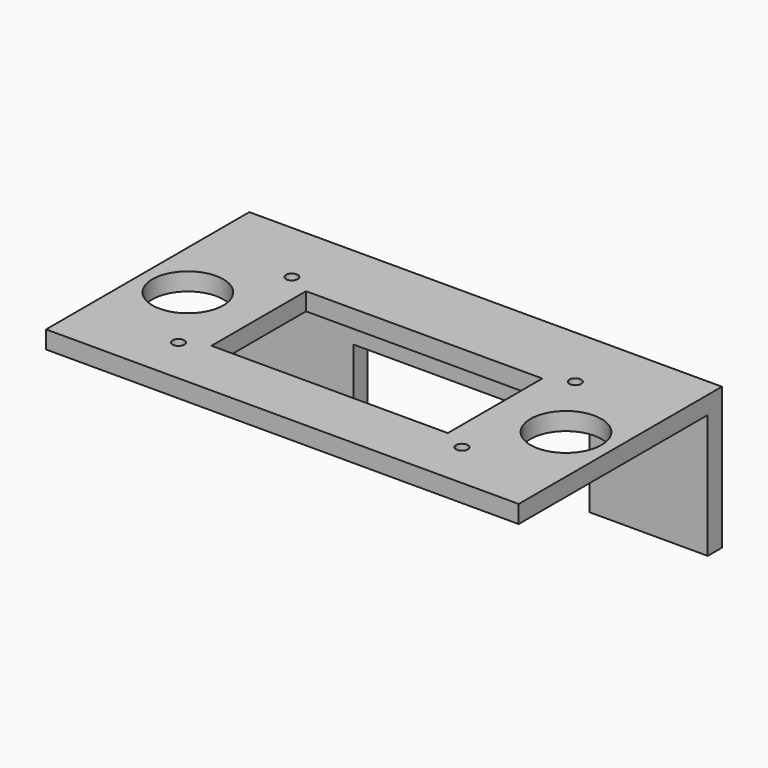
from build123d import *

# Parameters (mm, degrees)
F0_W     = 254
F0_H     = 127
F0_W_2   = 127
F0_H_2   = 63.5
F1_DEPTH = 9.525
F2_R     = 3.175
F3_DEPTH = 9525
F4_R     = 19.05
F5_DEPTH = 9.526
F6_W     = 254
F6_H     = 76.2
F7_DEPTH = 9.525
F8_W     = 127
F8_H     = 38.1
F9_DEPTH = 136.526


with BuildPart() as f1:
    # F0 (on Top) → F1 (new body)
    with BuildSketch(Plane.XY):
        Rectangle(F0_W, F0_H)
        Rectangle(F0_W_2, F0_H_2, mode=Mode.SUBTRACT)
    extrude(amount=F1_DEPTH)

    # F2 (on Top) → F3 (cut)
    with BuildSketch(Plane.XY):
        with Locations((-76.2, 38.1)):
            Circle(F2_R)
        with Locations((76.2, 38.1)):
            Circle(F2_R)
        with Locations((-76.2, -38.1)):
            Circle(F2_R)
        with Locations((76.2, -38.1)):
            Circle(F2_R)
    extrude(amount=F3_DEPTH, mode=Mode.SUBTRACT)

    # F4 (on Top) → F5 (cut, through all)
    with BuildSketch(Plane.XY):
        with Locations((-101.6, 0)):
            Circle(F4_R)
        with Locations((101.6, 0)):
            Circle(F4_R)
    extrude(amount=F5_DEPTH, mode=Mode.SUBTRACT)

    # F6 (on face) → F7 (join)
    with BuildSketch(Plane(origin=(0, 63.5, 0), x_dir=(-1, 0, 0), z_dir=(0, 1, 0))):
        with Locations((0, -28.575)):
            Rectangle(F6_W, F6_H)
    extrude(amount=F7_DEPTH)

    # F8 (on face) → F9 (cut, through all)
    with BuildSketch(Plane(origin=(0, 73.025, 0), x_dir=(-1, 0, 0), z_dir=(0, 1, 0))):
        with Locations((0, -47.625)):
            Rectangle(F8_W, F8_H)
    extrude(amount=-F9_DEPTH, mode=Mode.SUBTRACT)


solid = f1.part
